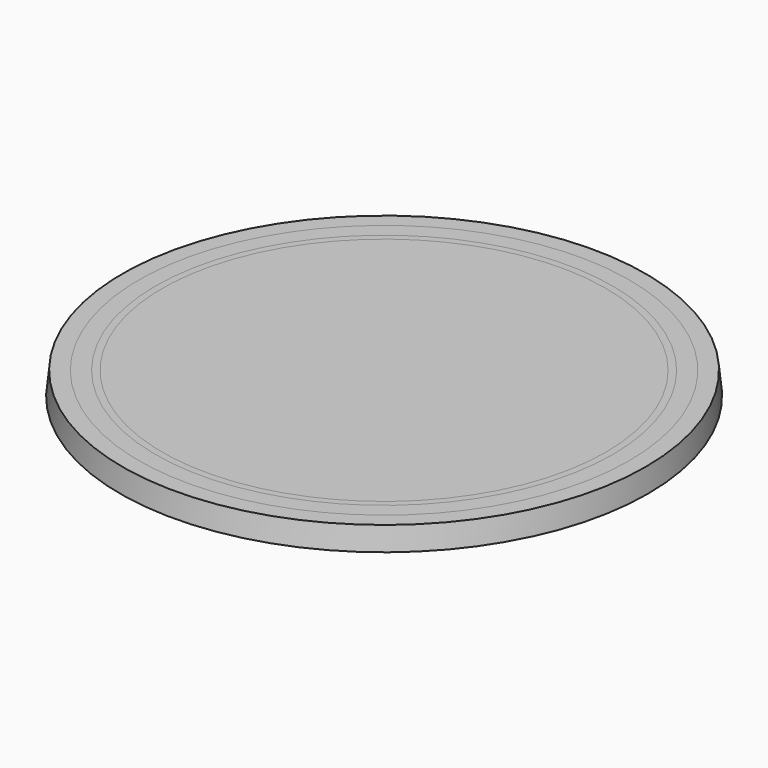
from build123d import *

# Parameters (mm, degrees)
F6_R      = 57.75
F7_DEPTH  = 5
F7_TAPER  = 5.9131224442
F8_R      = 54.125
F9_DEPTH  = 5
F9_TAPER  = 5.9131224442
F10_R     = 50.5
F11_DEPTH = 5
F11_TAPER = 5.9131224442
F12_R     = 49.05
F13_DEPTH = 5
F13_TAPER = 5.9131224442


with BuildPart() as f7:
    # F6 (on Top) → F7 (new body)
    with BuildSketch(Plane.XY):
        Circle(F6_R)
    extrude(amount=F7_DEPTH, taper=F7_TAPER)


with BuildPart() as f9:
    # F8 (on Top) → F9 (new body)
    with BuildSketch(Plane.XY):
        Circle(F8_R)
    extrude(amount=F9_DEPTH, taper=F9_TAPER)


with BuildPart() as f11:
    # F10 (on Top) → F11 (new body)
    with BuildSketch(Plane.XY):
        Circle(F10_R)
    extrude(amount=F11_DEPTH, taper=F11_TAPER)


with BuildPart() as f13:
    # F12 (on Top) → F13 (new body)
    with BuildSketch(Plane.XY):
        Circle(F12_R)
    extrude(amount=F13_DEPTH, taper=F13_TAPER)


solid = Compound([f7.part, f9.part, f11.part, f13.part])
